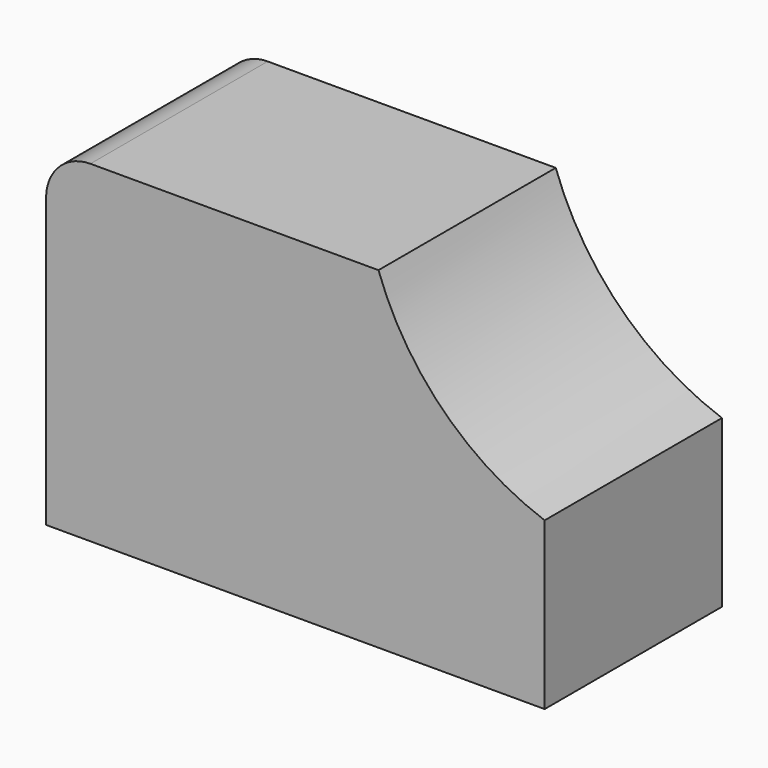
from build123d import *

# Parameters (mm, degrees)
F0_W     = 57.15
F0_H     = 38.1
F1_DEPTH = 25.4
F3_DEPTH = 25.4
F4_R     = 5.08


with BuildPart() as f1:
    # F0 (on Front) → F1 (new body)
    with BuildSketch(Plane.XZ):
        with Locations((11.729645, 19.05)):
            Rectangle(F0_W, F0_H)
    extrude(amount=F1_DEPTH)

    # F2 (on face) → F3 (cut)
    with BuildSketch(Plane.XZ.offset(25.4)):
        with BuildLine():
            Line((40.304645, 38.1), (21.254645, 38.1))
            ThreePointArc((21.254645, 38.1), (28.622933, 26.418288), (40.304645, 19.05))
            Line((40.304645, 19.05), (40.304645, 38.1))
        make_face()
    extrude(amount=-F3_DEPTH, mode=Mode.SUBTRACT)

    # F4
    f4_edges = [f1.edges().sort_by_distance(p)[0] for p in [
        (-16.845355, -12.7, 38.1),
    ]]
    fillet(f4_edges, radius=F4_R)


solid = f1.part
